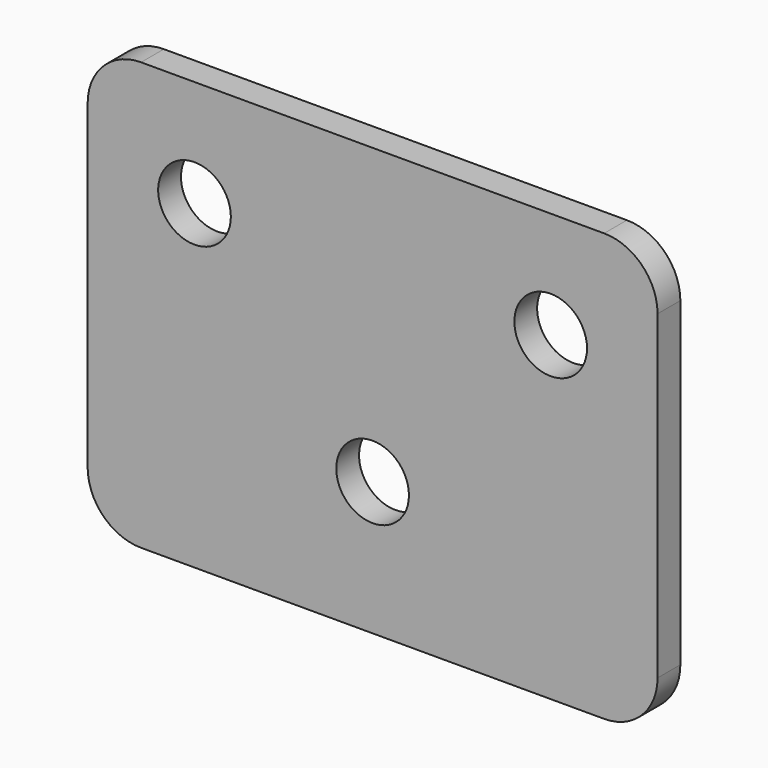
from build123d import *

# Parameters (mm, degrees)
F0_R     = 5.1
F1_DEPTH = 4


with BuildPart() as f1:
    # F0 (on Front) → F1 (new body)
    with BuildSketch(Plane.XZ):
        with BuildLine():
            ThreePointArc((40, 22.5), (37.803301, 27.803301), (32.5, 30))
            Line((32.5, 30), (-32.5, 30))
            ThreePointArc((-32.5, 30), (-37.803301, 27.803301), (-40, 22.5))
            Line((-40, 22.5), (-40, -22.5))
            ThreePointArc((-40, -22.5), (-37.803301, -27.803301), (-32.5, -30))
            Line((-32.5, -30), (32.5, -30))
            ThreePointArc((32.5, -30), (37.803301, -27.803301), (40, -22.5))
            Line((40, -22.5), (40, 22.5))
        make_face()
        with Locations((0, -11.285464)):
            Circle(F0_R, mode=Mode.SUBTRACT)
        with Locations((-25, 15)):
            Circle(F0_R, mode=Mode.SUBTRACT)
        with Locations((25, 15)):
            Circle(F0_R, mode=Mode.SUBTRACT)
    extrude(amount=F1_DEPTH)


solid = f1.part
